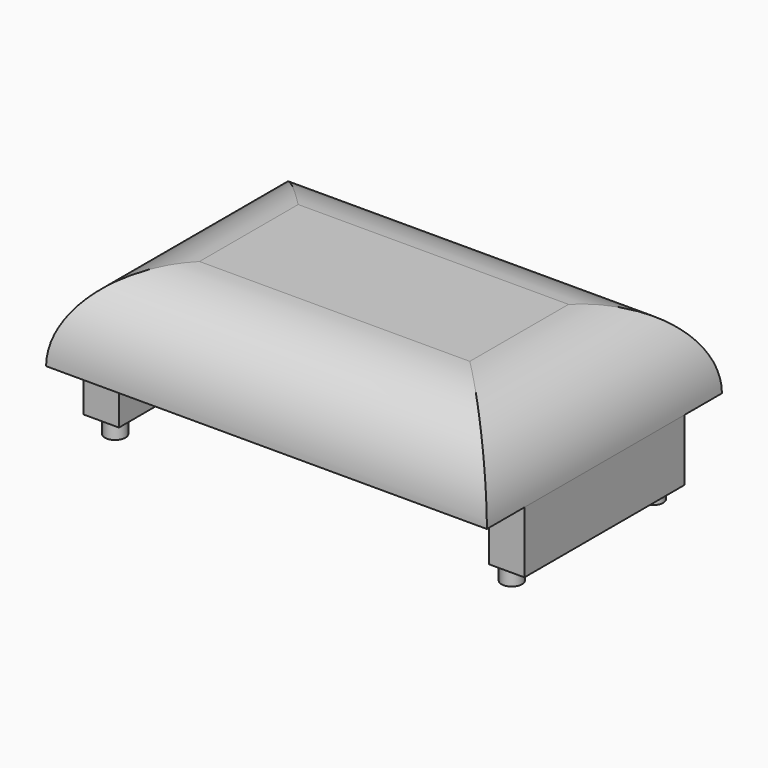
from build123d import *

# Parameters (mm, degrees)
SKETCH_W        = 150
SKETCH_H        = 100
PAD_DEPTH       = 50
SKETCH001_R     = 3.5
PAD001_DEPTH    = 5
SKETCH002_W     = 33
SKETCH002_H     = 12
POCKET_DEPTH    = 20
FILLET_R        = 29
SKETCH004_W     = 126
SKETCH004_H     = 76
POCKET001_DEPTH = 25
SKETCH005_R     = 4
POCKET002_DEPTH = 5
SKETCH006_W     = 20.5
SKETCH006_H     = 20
POCKET003_DEPTH = 100
SKETCH008_W     = 16
SKETCH008_H     = 21
POCKET004_DEPTH = 200


with BuildPart() as part:
    # Sketch → Pad (new body)
    with BuildSketch(Plane.XY):
        Rectangle(SKETCH_W, SKETCH_H)
    extrude(amount=PAD_DEPTH)

    # Sketch001 (on Face5 of Pad) → Pad001 (join)
    with BuildSketch(Plane(origin=(0, 0, 0), x_dir=(1, 0, 0), z_dir=(0, 0, -1))):
        with Locations((67.5, 30)):
            Circle(SKETCH001_R)
        with Locations((67.5, -30)):
            Circle(SKETCH001_R)
        with Locations((-67.5, -30)):
            Circle(SKETCH001_R)
        with Locations((-67.5, 30)):
            Circle(SKETCH001_R)
    extrude(amount=PAD001_DEPTH)

    # Sketch002 (on Face4 of Pad001) → Pocket (cut)
    with BuildSketch(Plane(origin=(0, 0, 0), x_dir=(1, 0, 0), z_dir=(0, 0, -1))):
        with Locations((-53.5, 44)):
            Rectangle(SKETCH002_W, SKETCH002_H)
        with Locations((53.5, 44)):
            Rectangle(SKETCH002_W, SKETCH002_H)
        with Locations((0, 44)):
            Rectangle(SKETCH002_W, SKETCH002_H)
        with Locations((-53.5, -44)):
            Rectangle(SKETCH002_W, SKETCH002_H)
        with Locations((0, -44)):
            Rectangle(SKETCH002_W, SKETCH002_H)
        with Locations((53.5, -44)):
            Rectangle(SKETCH002_W, SKETCH002_H)
    extrude(amount=-POCKET_DEPTH, mode=Mode.SUBTRACT)

    # Fillet
    fillet_edges = [part.edges().sort_by_distance(p)[0] for p in [
        (0, 50, 50),
        (75, 0, 50),
        (0, -50, 50),
        (-75, 0, 50),
    ]]
    fillet(fillet_edges, radius=FILLET_R)

    # Sketch004 (on Face4 of Fillet) → Pocket001 (cut)
    with BuildSketch(Plane(origin=(0, 0, 0), x_dir=(1, 0, 0), z_dir=(0, 0, -1))):
        Rectangle(SKETCH004_W, SKETCH004_H)
    extrude(amount=-POCKET001_DEPTH, mode=Mode.SUBTRACT)

    # Sketch005 (on Face12 of Pocket001) → Pocket002 (cut)
    with BuildSketch(Plane(origin=(0, 0, 0), x_dir=(1, 0, 0), z_dir=(0, 0, -1))):
        with Locations((-26, 42.5)):
            Circle(SKETCH005_R)
        with Locations((27.5, 42.5)):
            Circle(SKETCH005_R)
        with Locations((-26, -42.5)):
            Circle(SKETCH005_R)
        with Locations((27.5, -42.5)):
            Circle(SKETCH005_R)
    extrude(amount=-POCKET002_DEPTH, mode=Mode.SUBTRACT)

    # Sketch006 (on Face19 of Pocket002) → Pocket003 (cut)
    with BuildSketch(Plane.XZ.offset(50)):
        with Locations((-26.75, 10)):
            Rectangle(SKETCH006_W, SKETCH006_H)
        with Locations((26.75, 10)):
            Rectangle(SKETCH006_W, SKETCH006_H)
    extrude(amount=-POCKET003_DEPTH, mode=Mode.SUBTRACT)

    # Sketch008 (on Face3 of Pocket003) → Pocket004 (cut)
    with BuildSketch(Plane(origin=(-75, 0, 0), x_dir=(0, -1, 0), z_dir=(-1, 0, 0))):
        with Locations((-42, 10.5)):
            Rectangle(SKETCH008_W, SKETCH008_H)
        with Locations((42, 10.5)):
            Rectangle(SKETCH008_W, SKETCH008_H)
    extrude(amount=-POCKET004_DEPTH, mode=Mode.SUBTRACT)


solid = part.part
